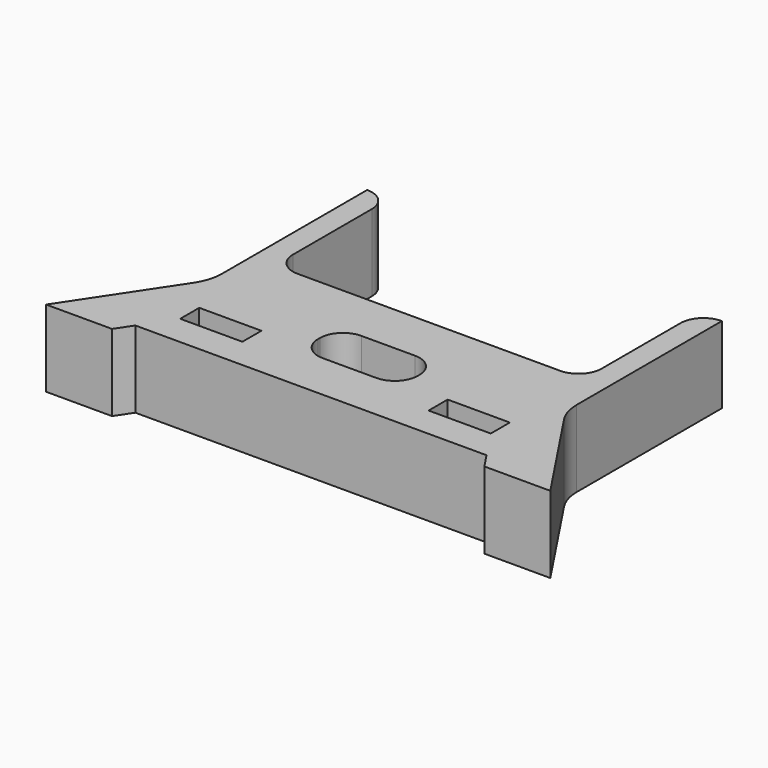
from build123d import *

# Parameters (mm, degrees)
F0_W     = 8.1
F0_H     = 3.1
F1_DEPTH = 10


with BuildPart() as f1:
    # F0 (on Top) → F1 (new body)
    with BuildSketch(Plane.XY):
        with BuildLine():
            ThreePointArc((20.1, -15.834965), (19.22132, -17.956285), (17.1, -18.834965))
            Line((17.1, -18.834965), (-17.1, -18.834965))
            ThreePointArc((-17.1, -18.834965), (-19.22132, -17.956285), (-20.1, -15.834965))
            Line((-20.1, -15.834965), (-20.1, -3))
            ThreePointArc((-20.1, -3), (-20.97868, -0.87868), (-23.1, 0))
            Line((-23.1, 0), (-23.1, -23.637105))
            ThreePointArc((-23.1, -23.637105), (-23.355919, -25.370754), (-24.101846, -26.956511))
            Line((-24.101846, -26.956511), (-32.833091, -40.10347))
            Line((-32.833091, -40.10347), (-24.244918, -40.10347))
            Line((-24.244918, -40.10347), (-22.869062, -38.031792))
            Line((-22.869062, -38.031792), (0, -38.031792))
            Line((0, -38.031792), (22.869062, -38.031792))
            Line((22.869062, -38.031792), (24.244918, -40.10347))
            Line((24.244918, -40.10347), (32.833091, -40.10347))
            Line((32.833091, -40.10347), (24.101846, -26.956511))
            ThreePointArc((24.101846, -26.956511), (23.355919, -25.370754), (23.1, -23.637105))
            Line((23.1, -23.637105), (23.1, 0))
            ThreePointArc((23.1, 0), (20.97868, -0.87868), (20.1, -3))
            Line((20.1, -3), (20.1, -15.834965))
        make_face()
        with Locations((-16.173929, -32.481792)):
            Rectangle(F0_W, F0_H, mode=Mode.SUBTRACT)
        with Locations((16.173929, -32.481792)):
            Rectangle(F0_W, F0_H, mode=Mode.SUBTRACT)
        with BuildLine():
            ThreePointArc((-6.487891, -28.46048), (-5.609211, -26.339159), (-3.487891, -25.46048))
            Line((-3.487891, -25.46048), (3.487891, -25.46048))
            ThreePointArc((3.487891, -25.46048), (5.609211, -26.339159), (6.487891, -28.46048))
            Line((6.487891, -28.46048), (6.487891, -28.74646))
            ThreePointArc((6.487891, -28.74646), (5.609211, -30.86778), (3.487891, -31.74646))
            Line((3.487891, -31.74646), (-3.487891, -31.74646))
            ThreePointArc((-3.487891, -31.74646), (-5.609211, -30.86778), (-6.487891, -28.74646))
            Line((-6.487891, -28.74646), (-6.487891, -28.46048))
        make_face(mode=Mode.SUBTRACT)
    extrude(amount=F1_DEPTH)


solid = f1.part
